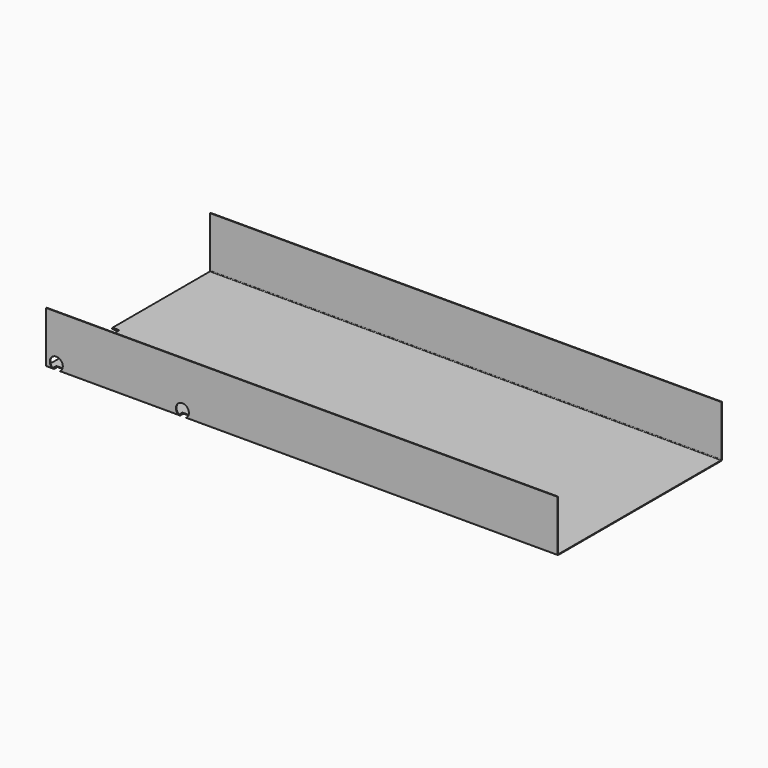
from build123d import *

# Parameters (mm, degrees)
F1_DEPTH = 750
F2_R     = 2
F3_R     = 4
F4_R     = 19.05
F5_DEPTH = 15
F6_R     = 19.05
F7_DEPTH = 20


with BuildPart() as f1:
    # F0 (on Right) → F1 (new body, symmetric)
    with BuildSketch(Plane.YZ):
        Polygon((300, -75), (-300, -75), (-300, 75), (-302, 75), (-302, -77), (302, -77), (302, 75), (300, 75), align=None)
    extrude(amount=F1_DEPTH, both=True)

    # F2
    f2_edges = [f1.edges().sort_by_distance(p)[0] for p in [
        (0, 300, -75),
        (0, -300, -75),
    ]]
    fillet(f2_edges, radius=F2_R)

    # F3
    f3_edges = [f1.edges().sort_by_distance(p)[0] for p in [
        (0, -302, -77),
        (0, 302, -77),
    ]]
    fillet(f3_edges, radius=F3_R)

    # F4 (on face) → F5 (cut)
    with BuildSketch(Plane.XZ.offset(302)):
        with Locations((-720, -60)):
            Circle(F4_R)
        with Locations((-350, -60)):
            Circle(F4_R)
    extrude(amount=-F5_DEPTH, mode=Mode.SUBTRACT)

    # F6 (on face) → F7 (cut)
    with BuildSketch(Plane(origin=(-750, 0, 0), x_dir=(0, -1, 0), z_dir=(-1, 0, 0))):
        with Locations((70, -60)):
            Circle(F6_R)
    extrude(amount=-F7_DEPTH, mode=Mode.SUBTRACT)


solid = f1.part
